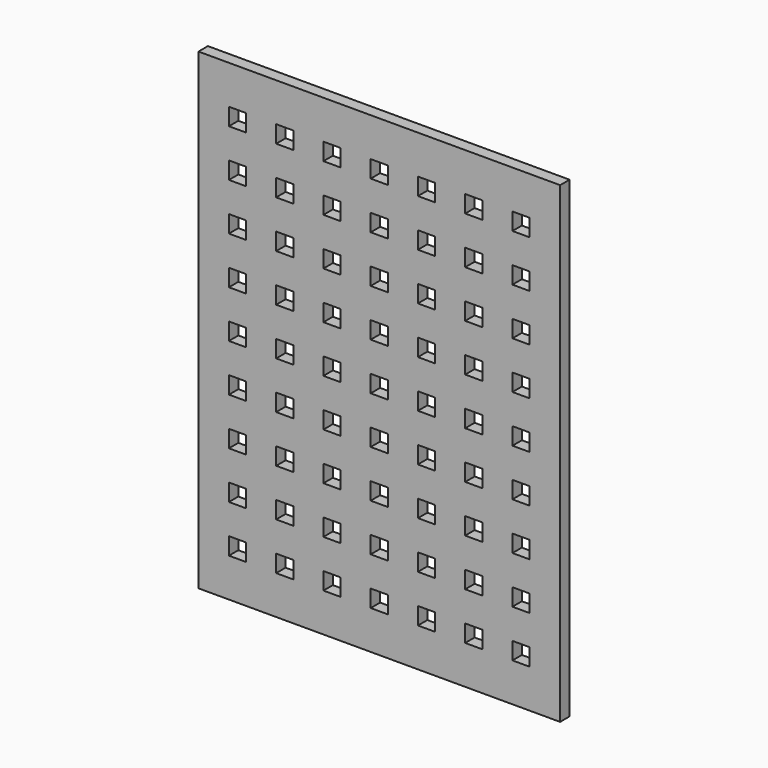
from build123d import *

# Parameters (mm, degrees)
F0_W     = 97.2058
F0_H     = 127
F0_W_2   = 4.6228
F0_H_2   = 4.6228
F1_DEPTH = 3.175


with BuildPart() as f1:
    # F0 (on Front) → F1 (new body)
    with BuildSketch(Plane.XZ):
        Rectangle(F0_W, F0_H)
        with Locations((-38.1, -50.8)):
            Rectangle(F0_W_2, F0_H_2, mode=Mode.SUBTRACT)
        with Locations((-25.4, -50.8)):
            Rectangle(F0_W_2, F0_H_2, mode=Mode.SUBTRACT)
        with Locations((-38.1, -38.1)):
            Rectangle(F0_W_2, F0_H_2, mode=Mode.SUBTRACT)
        with Locations((-25.4, -38.1)):
            Rectangle(F0_W_2, F0_H_2, mode=Mode.SUBTRACT)
        with Locations((-12.7, -50.8)):
            Rectangle(F0_W_2, F0_H_2, mode=Mode.SUBTRACT)
        with Locations((0, -50.8)):
            Rectangle(F0_W_2, F0_H_2, mode=Mode.SUBTRACT)
        with Locations((-12.7, -38.1)):
            Rectangle(F0_W_2, F0_H_2, mode=Mode.SUBTRACT)
        with Locations((0, -38.1)):
            Rectangle(F0_W_2, F0_H_2, mode=Mode.SUBTRACT)
        with Locations((-38.1, -25.4)):
            Rectangle(F0_W_2, F0_H_2, mode=Mode.SUBTRACT)
        with Locations((-25.4, -25.4)):
            Rectangle(F0_W_2, F0_H_2, mode=Mode.SUBTRACT)
        with Locations((-38.1, -12.7)):
            Rectangle(F0_W_2, F0_H_2, mode=Mode.SUBTRACT)
        with Locations((-25.4, -12.7)):
            Rectangle(F0_W_2, F0_H_2, mode=Mode.SUBTRACT)
        with Locations((-12.7, -25.4)):
            Rectangle(F0_W_2, F0_H_2, mode=Mode.SUBTRACT)
        with Locations((0, -25.4)):
            Rectangle(F0_W_2, F0_H_2, mode=Mode.SUBTRACT)
        with Locations((-12.7, -12.7)):
            Rectangle(F0_W_2, F0_H_2, mode=Mode.SUBTRACT)
        with Locations((0, -12.7)):
            Rectangle(F0_W_2, F0_H_2, mode=Mode.SUBTRACT)
        with Locations((12.7, -50.8)):
            Rectangle(F0_W_2, F0_H_2, mode=Mode.SUBTRACT)
        with Locations((12.7, -38.1)):
            Rectangle(F0_W_2, F0_H_2, mode=Mode.SUBTRACT)
        with Locations((25.4, -50.8)):
            Rectangle(F0_W_2, F0_H_2, mode=Mode.SUBTRACT)
        Polygon((35.7886, -48.4886), (40.4114, -48.4886), (40.4114, -50.8), (40.4114, -53.1114), (35.7886, -53.1114), (35.7886, -50.8), align=None, mode=Mode.SUBTRACT)
        with Locations((25.4, -38.1)):
            Rectangle(F0_W_2, F0_H_2, mode=Mode.SUBTRACT)
        Polygon((38.1, -35.7886), (40.4114, -35.7886), (40.4114, -40.4114), (35.7886, -40.4114), (35.7886, -35.7886), align=None, mode=Mode.SUBTRACT)
        with Locations((12.7, -25.4)):
            Rectangle(F0_W_2, F0_H_2, mode=Mode.SUBTRACT)
        with Locations((12.7, -12.7)):
            Rectangle(F0_W_2, F0_H_2, mode=Mode.SUBTRACT)
        with Locations((25.4, -25.4)):
            Rectangle(F0_W_2, F0_H_2, mode=Mode.SUBTRACT)
        with Locations((38.1, -25.4)):
            Rectangle(F0_W_2, F0_H_2, mode=Mode.SUBTRACT)
        with Locations((25.4, -12.7)):
            Rectangle(F0_W_2, F0_H_2, mode=Mode.SUBTRACT)
        with Locations((38.1, -12.7)):
            Rectangle(F0_W_2, F0_H_2, mode=Mode.SUBTRACT)
        with Locations((-38.1, 0)):
            Rectangle(F0_W_2, F0_H_2, mode=Mode.SUBTRACT)
        with Locations((-38.1, 12.7)):
            Rectangle(F0_W_2, F0_H_2, mode=Mode.SUBTRACT)
        with Locations((-25.4, 0)):
            Rectangle(F0_W_2, F0_H_2, mode=Mode.SUBTRACT)
        with Locations((-25.4, 12.7)):
            Rectangle(F0_W_2, F0_H_2, mode=Mode.SUBTRACT)
        with Locations((-38.1, 25.4)):
            Rectangle(F0_W_2, F0_H_2, mode=Mode.SUBTRACT)
        with Locations((-25.4, 25.4)):
            Rectangle(F0_W_2, F0_H_2, mode=Mode.SUBTRACT)
        with Locations((-12.7, 0)):
            Rectangle(F0_W_2, F0_H_2, mode=Mode.SUBTRACT)
        with Locations((-12.7, 12.7)):
            Rectangle(F0_W_2, F0_H_2, mode=Mode.SUBTRACT)
        Rectangle(F0_W_2, F0_H_2, mode=Mode.SUBTRACT)
        with Locations((0, 12.7)):
            Rectangle(F0_W_2, F0_H_2, mode=Mode.SUBTRACT)
        with Locations((-12.7, 25.4)):
            Rectangle(F0_W_2, F0_H_2, mode=Mode.SUBTRACT)
        with Locations((0, 25.4)):
            Rectangle(F0_W_2, F0_H_2, mode=Mode.SUBTRACT)
        with Locations((-38.1, 38.1)):
            Rectangle(F0_W_2, F0_H_2, mode=Mode.SUBTRACT)
        with Locations((-25.4, 38.1)):
            Rectangle(F0_W_2, F0_H_2, mode=Mode.SUBTRACT)
        with Locations((-38.1, 50.8)):
            Rectangle(F0_W_2, F0_H_2, mode=Mode.SUBTRACT)
        with Locations((-25.4, 50.8)):
            Rectangle(F0_W_2, F0_H_2, mode=Mode.SUBTRACT)
        with Locations((-12.7, 38.1)):
            Rectangle(F0_W_2, F0_H_2, mode=Mode.SUBTRACT)
        with Locations((0, 38.1)):
            Rectangle(F0_W_2, F0_H_2, mode=Mode.SUBTRACT)
        with Locations((-12.7, 50.8)):
            Rectangle(F0_W_2, F0_H_2, mode=Mode.SUBTRACT)
        with Locations((0, 50.8)):
            Rectangle(F0_W_2, F0_H_2, mode=Mode.SUBTRACT)
        with Locations((12.7, 0)):
            Rectangle(F0_W_2, F0_H_2, mode=Mode.SUBTRACT)
        with Locations((12.7, 12.7)):
            Rectangle(F0_W_2, F0_H_2, mode=Mode.SUBTRACT)
        with Locations((12.7, 25.4)):
            Rectangle(F0_W_2, F0_H_2, mode=Mode.SUBTRACT)
        with Locations((25.4, 0)):
            Rectangle(F0_W_2, F0_H_2, mode=Mode.SUBTRACT)
        with Locations((25.4, 12.7)):
            Rectangle(F0_W_2, F0_H_2, mode=Mode.SUBTRACT)
        with Locations((38.1, 0)):
            Rectangle(F0_W_2, F0_H_2, mode=Mode.SUBTRACT)
        with Locations((38.1, 12.7)):
            Rectangle(F0_W_2, F0_H_2, mode=Mode.SUBTRACT)
        with Locations((25.4, 25.4)):
            Rectangle(F0_W_2, F0_H_2, mode=Mode.SUBTRACT)
        with Locations((38.1, 25.4)):
            Rectangle(F0_W_2, F0_H_2, mode=Mode.SUBTRACT)
        with Locations((12.7, 38.1)):
            Rectangle(F0_W_2, F0_H_2, mode=Mode.SUBTRACT)
        with Locations((12.7, 50.8)):
            Rectangle(F0_W_2, F0_H_2, mode=Mode.SUBTRACT)
        with Locations((25.4, 38.1)):
            Rectangle(F0_W_2, F0_H_2, mode=Mode.SUBTRACT)
        with Locations((38.1, 38.1)):
            Rectangle(F0_W_2, F0_H_2, mode=Mode.SUBTRACT)
        with Locations((25.4, 50.8)):
            Rectangle(F0_W_2, F0_H_2, mode=Mode.SUBTRACT)
        with Locations((38.1, 50.8)):
            Rectangle(F0_W_2, F0_H_2, mode=Mode.SUBTRACT)
    extrude(amount=F1_DEPTH)


solid = f1.part
